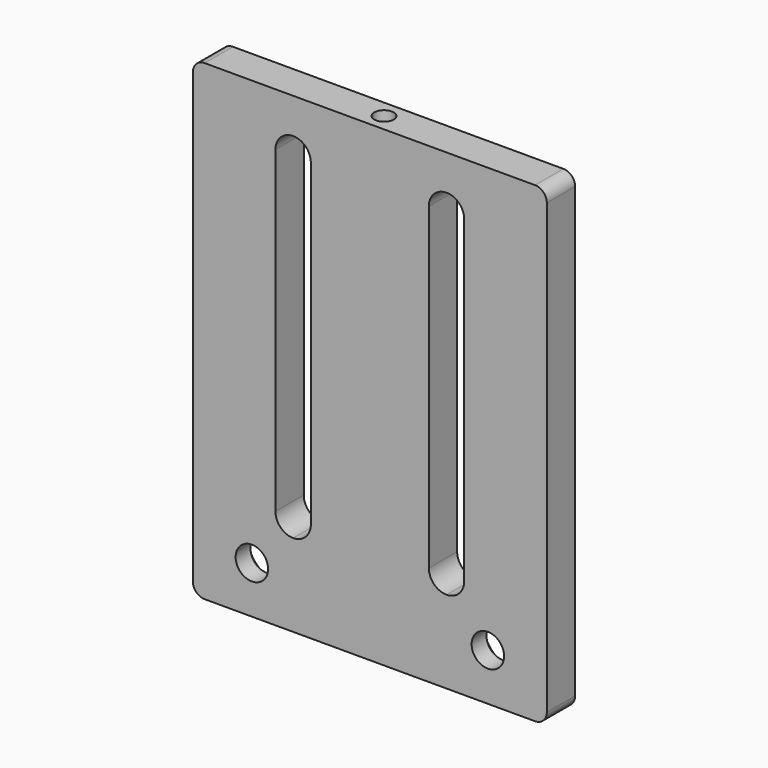
from build123d import *

# Parameters (mm, degrees)
F1_DEPTH       = 6
F2_D           = 5.5
F2_DEPTH       = 19
F2_CSINK_D     = 11.2
F2_CSINK_ANGLE = 90
F2_TIP         = 1.6523667023
F4_D           = 3.3
F4_DEPTH       = 14.1
F4_TIP         = 0.9914200214


with BuildPart() as f1:
    # F0 (on Front) → F1 (new body)
    with BuildSketch(Plane.XZ):
        with BuildLine():
            Line((28, 40), (-28, 40))
            ThreePointArc((-28, 40), (-29.4142135624, 39.4142135624), (-30, 38))
            Line((-30, 38), (-30, -38))
            ThreePointArc((-30, -38), (-29.4142135624, -39.4142135624), (-28, -40))
            Line((-28, -40), (28, -40))
            ThreePointArc((28, -40), (29.4142135624, -39.4142135624), (30, -38))
            Line((30, -38), (30, 38))
            ThreePointArc((30, 38), (29.4142135624, 39.4142135624), (28, 40))
        make_face()
        with BuildLine():
            Line((-16, -23), (-16, 31))
            ThreePointArc((-16, 31), (-15.1213203436, 33.1213203436), (-13, 34))
            ThreePointArc((-13, 34), (-10.8786796564, 33.1213203436), (-10, 31))
            Line((-10, 31), (-10, -23))
            ThreePointArc((-10, -23), (-10.8786796564, -25.1213203436), (-13, -26))
            ThreePointArc((-13, -26), (-15.1213203436, -25.1213203436), (-16, -23))
        make_face(mode=Mode.SUBTRACT)
        with BuildLine():
            Line((10, -23), (10, 31))
            ThreePointArc((10, 31), (10.8786796564, 33.1213203436), (13, 34))
            ThreePointArc((13, 34), (15.1213203436, 33.1213203436), (16, 31))
            Line((16, 31), (16, -23))
            ThreePointArc((16, -23), (15.1213203436, -25.1213203436), (13, -26))
            ThreePointArc((13, -26), (10.8786796564, -25.1213203436), (10, -23))
        make_face(mode=Mode.SUBTRACT)
    extrude(amount=F1_DEPTH)

    # F2
    with Locations(Plane(origin=(0, 0, 0), x_dir=(1, 0, 0), z_dir=(0, 1, 0))):
        with Locations((-20, 32), (20, 32)):
            CounterSinkHole(F2_D / 2, F2_CSINK_D / 2, depth=F2_DEPTH, counter_sink_angle=F2_CSINK_ANGLE)
            with Locations((0, 0, -(F2_DEPTH + F2_TIP / 2))):  # 118° drill point
                Cone(0, F2_D / 2, F2_TIP, mode=Mode.SUBTRACT)

    # F4
    with Locations(Plane.XY.offset(40)):
        with Locations((0, -3)):
            Hole(F4_D / 2, depth=F4_DEPTH)
            with Locations((0, 0, -(F4_DEPTH + F4_TIP / 2))):  # 118° drill point
                Cone(0, F4_D / 2, F4_TIP, mode=Mode.SUBTRACT)


solid = f1.part
